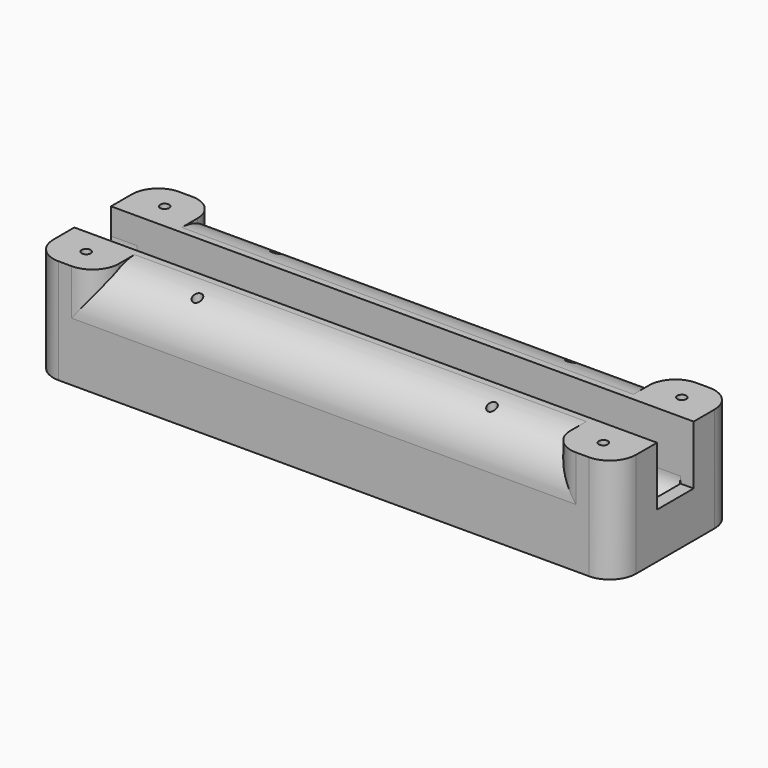
from build123d import *

# Parameters (mm, degrees)
BOX_W             = 69
BOX_H             = 23
BOX_DEPTH         = 21
FILLET002039_R    = 7
BOX048_W          = 69
BOX048_H          = 23
BOX048_DEPTH      = 21
CYLINDER_R        = 0.7
CYLINDER_DEPTH    = 25
CYLINDER042_R     = 0.7
CYLINDER042_DEPTH = 25
CYLINDER043_R     = 0.7
CYLINDER043_DEPTH = 25
CYLINDER044_R     = 0.7
CYLINDER044_DEPTH = 25
CYLINDER045_R     = 0.7
CYLINDER045_DEPTH = 25
CYLINDER046_R     = 0.7
CYLINDER046_DEPTH = 25
CYLINDER047_R     = 0.7
CYLINDER047_DEPTH = 25
CYLINDER048_R     = 0.7
CYLINDER048_DEPTH = 25
BOX044_W          = 83
BOX044_H          = 7
BOX044_DEPTH      = 10
FILLET002036_R    = 3
BOX029_W          = 83
BOX029_H          = 7
BOX029_DEPTH      = 18
FILLET002035_R    = 3
BOX045_W          = 10
BOX045_H          = 7
BOX045_DEPTH      = 14
BOX046_W          = 89
BOX046_H          = 23
BOX046_DEPTH      = 16
FILLET_R          = 4
FILLET002040_R    = 4


with BuildPart() as fillet002039:
    # Box → Box (new body)
    with BuildSketch(Plane(origin=(-42, -10, 0), x_dir=(1, 0, 0), z_dir=(0, 0, 1))):
        with Locations((34.5, 11.5)):
            Rectangle(BOX_W, BOX_H)
    extrude(amount=BOX_DEPTH)

    # Fillet002039
    fillet002039_edges = [fillet002039.edges().sort_by_distance(p)[0] for p in [
        (-7.5, -10, 21),
        (-7.5, 13, 21),
    ]]
    fillet(fillet002039_edges, radius=FILLET002039_R)


with BuildPart() as cut011004:
    # Box048 → Box048 (new body)
    with BuildSketch(Plane(origin=(-42, -10, 14), x_dir=(1, 0, 0), z_dir=(0, 0, 1))):
        with Locations((34.5, 11.5)):
            Rectangle(BOX048_W, BOX048_H)
    extrude(amount=BOX048_DEPTH)

    # Cut011004: cut Fillet002039
    add(fillet002039.part, mode=Mode.SUBTRACT)


with BuildPart() as obj1:
    # Cylinder → Cylinder (new body)
    with BuildSketch(Plane(origin=(-30, -6, 0), x_dir=(1, 0, 0), z_dir=(0, 0, 1))):
        Circle(CYLINDER_R)
    extrude(amount=CYLINDER_DEPTH)


with BuildPart() as obj2:
    # Cylinder042 → Cylinder042 (new body)
    with BuildSketch(Plane(origin=(-30, 9, 0), x_dir=(1, 0, 0), z_dir=(0, 0, 1))):
        Circle(CYLINDER042_R)
    extrude(amount=CYLINDER042_DEPTH)


with BuildPart() as obj3:
    # Cylinder043 → Cylinder043 (new body)
    with BuildSketch(Plane(origin=(15, -6, 0), x_dir=(1, 0, 0), z_dir=(0, 0, 1))):
        Circle(CYLINDER043_R)
    extrude(amount=CYLINDER043_DEPTH)


with BuildPart() as obj4:
    # Cylinder044 → Cylinder044 (new body)
    with BuildSketch(Plane(origin=(15, 9, 0), x_dir=(1, 0, 0), z_dir=(0, 0, 1))):
        Circle(CYLINDER044_R)
    extrude(amount=CYLINDER044_DEPTH)


with BuildPart() as obj5:
    # Cylinder045 → Cylinder045 (new body)
    with BuildSketch(Plane(origin=(-47, -6, 0), x_dir=(1, 0, 0), z_dir=(0, 0, 1))):
        Circle(CYLINDER045_R)
    extrude(amount=CYLINDER045_DEPTH)


with BuildPart() as obj6:
    # Cylinder046 → Cylinder046 (new body)
    with BuildSketch(Plane(origin=(-47, 9, 0), x_dir=(1, 0, 0), z_dir=(0, 0, 1))):
        Circle(CYLINDER046_R)
    extrude(amount=CYLINDER046_DEPTH)


with BuildPart() as obj7:
    # Cylinder047 → Cylinder047 (new body)
    with BuildSketch(Plane(origin=(32, 9, 0), x_dir=(1, 0, 0), z_dir=(0, 0, 1))):
        Circle(CYLINDER047_R)
    extrude(amount=CYLINDER047_DEPTH)


with BuildPart() as fusion033:
    # Cylinder048 → Cylinder048 (new body)
    with BuildSketch(Plane(origin=(32, -6, 0), x_dir=(1, 0, 0), z_dir=(0, 0, 1))):
        Circle(CYLINDER048_R)
    extrude(amount=CYLINDER048_DEPTH)

    # Fusion033: union obj1, obj2, obj3, obj4, obj5, obj6, obj7
    add(obj1.part)
    add(obj2.part)
    add(obj3.part)
    add(obj4.part)
    add(obj5.part)
    add(obj6.part)
    add(obj7.part)


with BuildPart() as fillet002036:
    # Box044 → Box044 (new body)
    with BuildSketch(Plane(origin=(-50, 0, 4), x_dir=(1, 0, 0), z_dir=(0, 0, 1))):
        with Locations((41.5, 3.5)):
            Rectangle(BOX044_W, BOX044_H)
    extrude(amount=BOX044_DEPTH)

    # Fillet002036
    fillet002036_edges = [fillet002036.edges().sort_by_distance(p)[0] for p in [
        (-8.5, 0, 4),
        (-8.5, 0, 14),
        (-8.5, 7, 4),
        (-8.5, 7, 14),
    ]]
    fillet(fillet002036_edges, radius=FILLET002036_R)


with BuildPart() as fillet002035:
    # Box029 → Box029 (new body)
    with BuildSketch(Plane.XY):
        with Locations((41.5, 3.5)):
            Rectangle(BOX029_W, BOX029_H)
    extrude(amount=BOX029_DEPTH)

    # Fillet002035
    fillet002035_edges = [fillet002035.edges().sort_by_distance(p)[0] for p in [
        (41.5, 0, 0),
        (41.5, 0, 18),
        (41.5, 7, 0),
        (41.5, 7, 18),
    ]]
    fillet(fillet002035_edges, radius=FILLET002035_R)


with BuildPart() as fusion034:
    # Box045 → Box045 (new body)
    with BuildSketch(Plane(origin=(83, 0, 2), x_dir=(1, 0, 0), z_dir=(0, 0, 1))):
        with Locations((5, 3.5)):
            Rectangle(BOX045_W, BOX045_H)
    extrude(amount=BOX045_DEPTH)

    # Fusion032: union Fillet002036, Fillet002035
    add(fillet002036.part)
    add(fillet002035.part)


with BuildPart() as fusion034_1:
    # Fusion032 placement: moved
    add(fusion034.part.moved(Location((-48, -2, 10))))

    # Fusion034: union Fusion033
    add(fusion033.part)


with BuildPart() as hubholder:
    # Box046 → Box046 (new body)
    with BuildSketch(Plane(origin=(-52, -10, 5), x_dir=(1, 0, 0), z_dir=(0, 0, 1))):
        with Locations((44.5, 11.5)):
            Rectangle(BOX046_W, BOX046_H)
    extrude(amount=BOX046_DEPTH)

    # Fillet
    fillet_edges = [hubholder.edges().sort_by_distance(p)[0] for p in [
        (-52, -10, 13),
        (-52, 13, 13),
        (37, -10, 13),
        (37, 13, 13),
    ]]
    fillet(fillet_edges, radius=FILLET_R)

    # Cut009: cut Fusion034
    add(fusion034_1.part, mode=Mode.SUBTRACT)

    # Cut011005: cut Cut011004
    add(cut011004.part, mode=Mode.SUBTRACT)

    # Fillet002040
    fillet002040_edges = [hubholder.edges().sort_by_distance(p)[0] for p in [
        (-42, -10, 17.5),
        (27, -10, 17.5),
        (27, 13, 17.5),
        (-42, 13, 17.5),
    ]]
    fillet(fillet002040_edges, radius=FILLET002040_R)


solid = hubholder.part
